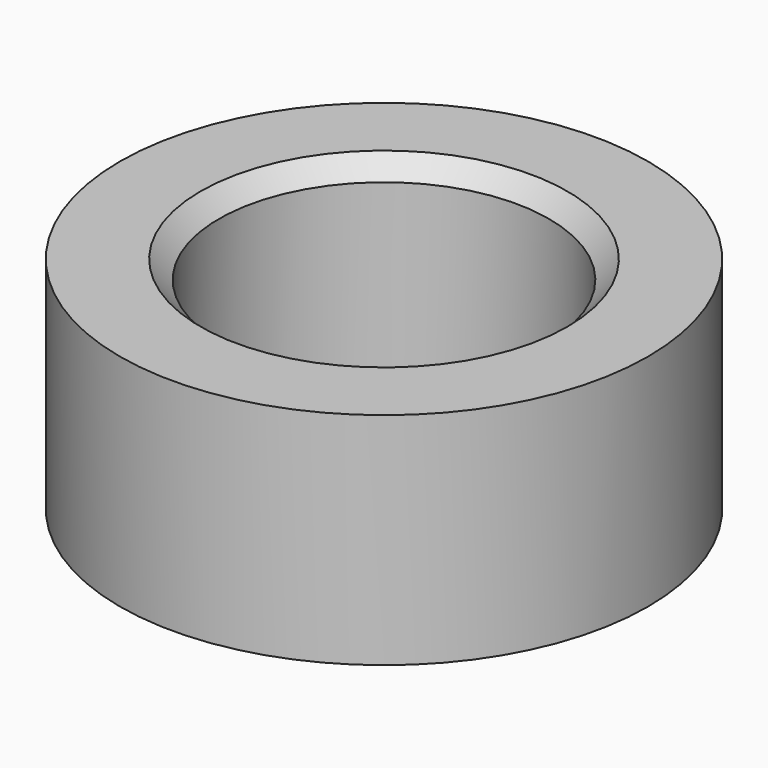
from build123d import *

# Parameters (mm, degrees)
F0_R     = 7.2
F0_R_2   = 4.5
F1_DEPTH = 6
F2_SIZE2 = 0.5
F2_SIZE  = 0.5


with BuildPart() as f1:
    # F0 (on Top) → F1 (new body)
    with BuildSketch(Plane.XY):
        Circle(F0_R)
        Circle(F0_R_2, mode=Mode.SUBTRACT)
    extrude(amount=F1_DEPTH)

    # F2
    f2_edges = [f1.edges().sort_by_distance(p)[0] for p in [
        (-4.5, 0, 0),
        (4.5, 0, 3),
        (-4.5, 0, 6),
    ]]
    chamfer(f2_edges, length=F2_SIZE, length2=F2_SIZE2)


solid = f1.part
